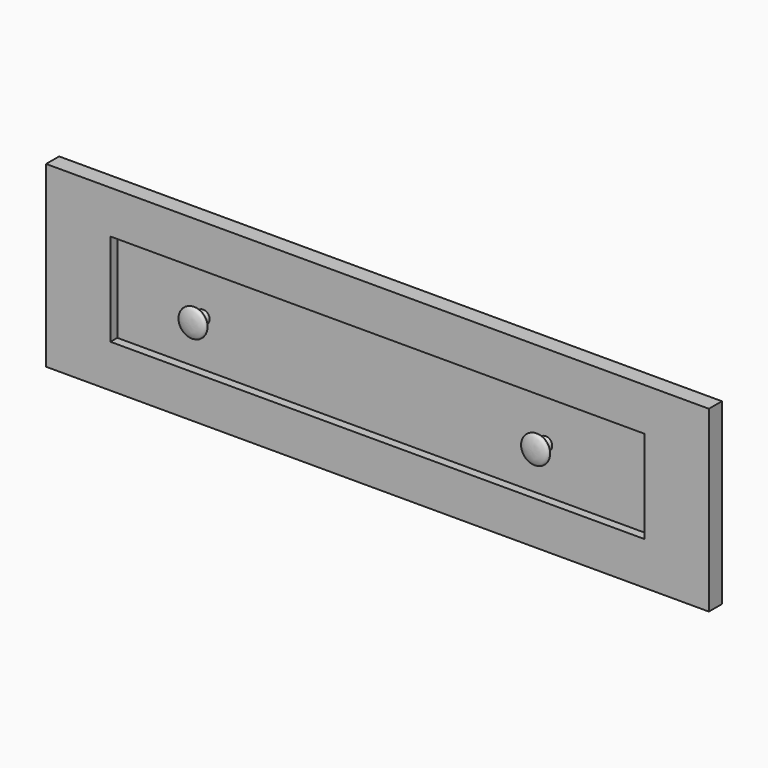
from build123d import *

# Parameters (mm, degrees)
CLONE2D014_W    = 772
CLONE2D014_H    = 208
PAD015_DEPTH    = 19
SKETCH039_W     = 622
SKETCH039_H     = 108
POCKET015_DEPTH = 10


with BuildPart() as part:
    # Clone2D014 → Pad015 (new body)
    with BuildSketch(Plane.XZ):
        with Locations((386, 104)):
            Rectangle(CLONE2D014_W, CLONE2D014_H)
    extrude(amount=PAD015_DEPTH)

    # Sketch039 (on Face6 of Pad015) → Pocket015 (cut)
    with BuildSketch(Plane.XZ.offset(19)):
        with Locations((386, 104)):
            Rectangle(SKETCH039_W, SKETCH039_H)
    extrude(amount=-POCKET015_DEPTH, mode=Mode.SUBTRACT)

    # Clone2D015 → Revolution008 (revolve)
    with BuildSketch(Plane(origin=(175, -9, 104), x_dir=(1, 0, 0), z_dir=(0, 0, 1))):
        with BuildLine():
            Line((0, 0), (0, -20))
            add(Edge.make_bspline(
                [(0, -20), (-18, -20), (-18, -9.133286), (-4.506424, -9.133286), (-7.5, 0)],
                knots=[0, 0, 0, 0, 0.5, 1, 1, 1, 1], degree=3, weights=[7, 6.116989, 5.810816, 6.060123, 5.999522]))
            Line((-7.5, 0), (0, 0))
        make_face()
    revolve(axis=Axis((175, -9, 104), (0, 1, 0)))

    # Clone2D016 → Revolution009 (revolve)
    with BuildSketch(Plane(origin=(574, -9, 104), x_dir=(1, 0, 0), z_dir=(0, 0, 1))):
        with BuildLine():
            Line((0, 0), (0, -20))
            add(Edge.make_bspline(
                [(0, -20), (-18, -20), (-18, -9.133286), (-4.506424, -9.133286), (-7.5, 0)],
                knots=[0, 0, 0, 0, 0.5, 1, 1, 1, 1], degree=3, weights=[7, 6.116989, 5.810816, 6.060123, 5.999522]))
            Line((-7.5, 0), (0, 0))
        make_face()
    revolve(axis=Axis((574, -9, 104), (0, 1, 0)))


with BuildPart() as part_1:
    # Body019 placement: moved
    add(part.part.moved(Location((394, 0, 236))))


solid = part_1.part
